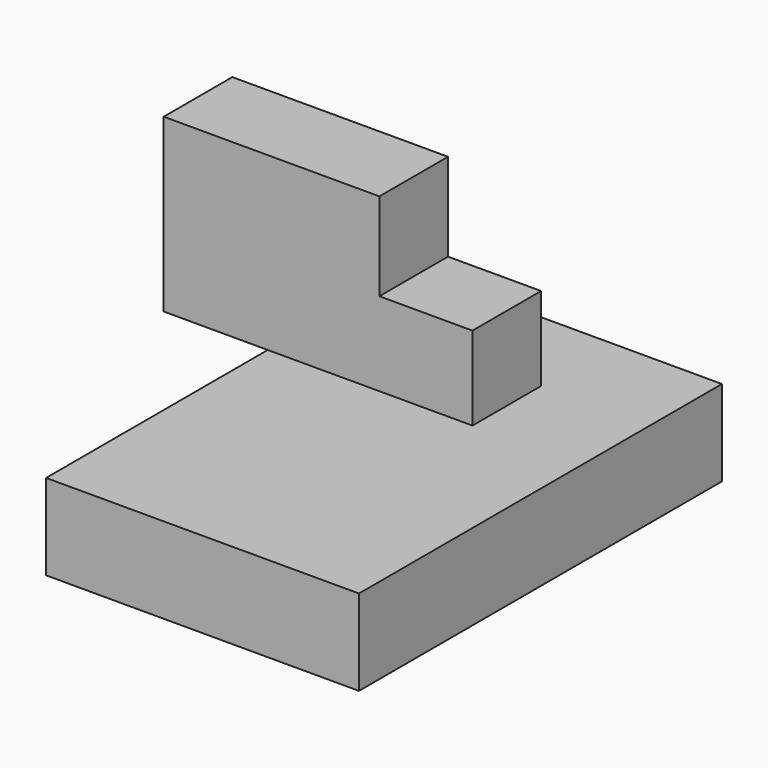
from build123d import *

# Parameters (mm, degrees)
F0_W     = 46.332154
F0_H     = 67.181624
F1_DEPTH = 12.7
F2_W     = 45.72
F2_H     = 25.4
F3_DEPTH = 12.7
F4_W     = 13.783416
F4_H     = 13.018981
F5_DEPTH = 25.4


with BuildPart() as f1:
    # F0 (on Top) → F1 (new body)
    with BuildSketch(Plane.XY):
        Rectangle(F0_W, F0_H)
    extrude(amount=F1_DEPTH)


with BuildPart() as f3:
    # F2 (on Front) → F3 (new body)
    with BuildSketch(Plane.XZ):
        with Locations((0.400082, 38.824569)):
            Rectangle(F2_W, F2_H)
    extrude(amount=F3_DEPTH)

    # F4 (on face) → F5 (cut)
    with BuildSketch(Plane(origin=(0, 0, 0), x_dir=(-1, 0, 0), z_dir=(0, 1, 0))):
        with Locations((-16.368374, 45.015079)):
            Rectangle(F4_W, F4_H)
    extrude(amount=-F5_DEPTH, mode=Mode.SUBTRACT)


solid = Compound([f1.part, f3.part])
